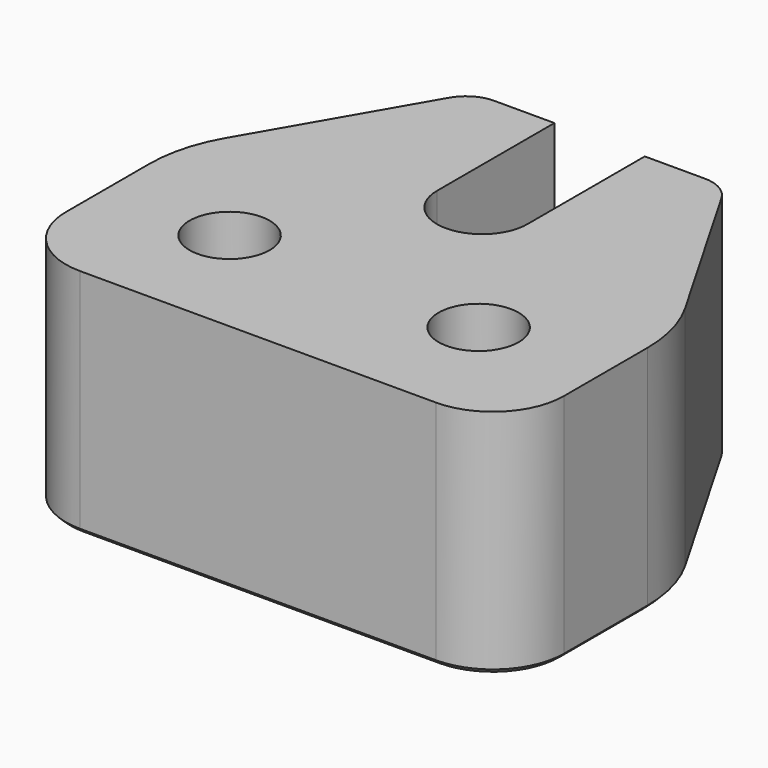
from build123d import *

# Parameters (mm, degrees)
F1_DEPTH = 13
F2_R     = 8
F3_R     = 2
F5_DEPTH = 8.73125
F6_R     = 2.25
F7_DEPTH = 13.001
F8_R     = 4
F9_SIZE  = 1.5
F10_SIZE = 0.25


with BuildPart() as f1:
    # F0 (on Top) → F1 (new body)
    with BuildSketch(Plane.XY):
        Polygon((0, 2.747639), (14, 2.747639), (14, 14.747639), (7.071797, 26.747639), (0, 26.747639), (-7.071797, 26.747639), (-14, 14.747639), (-14, 2.747639), align=None)
    extrude(amount=F1_DEPTH)

    # F2
    f2_edges = [f1.edges().sort_by_distance(p)[0] for p in [
        (-14, 14.747639, 6.5),
        (14, 14.747639, 6.5),
    ]]
    fillet(f2_edges, radius=F2_R)

    # F3
    f3_edges = [f1.edges().sort_by_distance(p)[0] for p in [
        (-7.071797, 26.747639, 6.5),
        (7.071797, 26.747639, 6.5),
    ]]
    fillet(f3_edges, radius=F3_R)

    # F4 (on face) → F5 (cut)
    with BuildSketch(Plane.XY.offset(13)):
        with BuildLine():
            Line((-2.54, 26.747639), (-2.54, 18.497639))
            ThreePointArc((-2.54, 18.497639), (0, 15.957639), (2.54, 18.497639))
            Line((2.54, 18.497639), (2.54, 26.747639))
            Line((2.54, 26.747639), (-2.54, 26.747639))
        make_face()
    extrude(amount=-F5_DEPTH, mode=Mode.SUBTRACT)

    # F6 (on face) → F7 (cut, through all)
    with BuildSketch(Plane(origin=(0, 0, 0), x_dir=(1, 0, 0), z_dir=(0, 0, -1))):
        with Locations((-7, -9.497639)):
            Circle(F6_R)
        with Locations((7, -9.497639)):
            Circle(F6_R)
    extrude(amount=-F7_DEPTH, mode=Mode.SUBTRACT)

    # F8
    f8_edges = [f1.edges().sort_by_distance(p)[0] for p in [
        (-14, 2.747639, 6.5),
        (14, 2.747639, 6.5),
    ]]
    fillet(f8_edges, radius=F8_R)

    # F9
    f9_edges = [f1.edges().sort_by_distance(p)[0] for p in [
        (0, 15.957639, 4.26875),
    ]]
    chamfer(f9_edges, length=F9_SIZE)

    # F10
    f10_edges = [f1.edges().sort_by_distance(p)[0] for p in [
        (4.75, 9.497639, 0),
        (-9.25, 9.497639, 0),
        (10.288675, 21.175842, 0),
    ]]
    chamfer(f10_edges, length=F10_SIZE)


solid = f1.part
